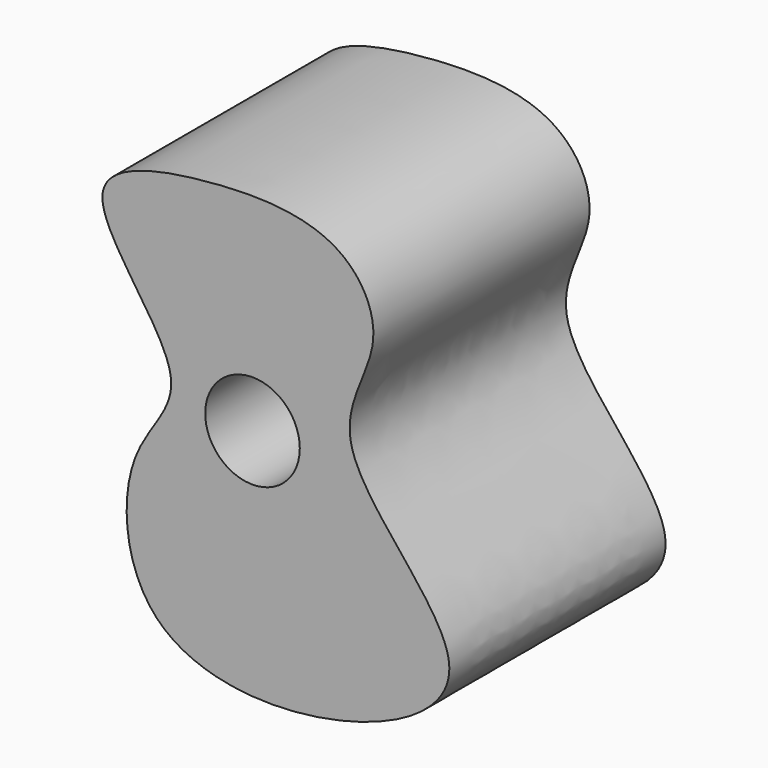
from build123d import *

# Parameters (mm, degrees)
F0_R     = 8.89
F1_DEPTH = 50.8


with BuildPart() as f1:
    # F0 (on Front) → F1 (new body)
    with BuildSketch(Plane.XZ):
        with BuildLine():
            add(Edge.make_bspline(
                [(-46.8421793414, 56.2575792243), (-47.4285455542, 49.7548142027), (-26.4571794687, 29.6527900877), (-44.2757725198, 16.8408653855), (-41.9962216061, -18.0785970853), (-0.1913454109, -19.7424700698), (29.5666641029, -0.6879411353), (-8.5110216832, 28.7328819698), (7.5655356088, 47.4730076166), (-1.3479715775, 65.0090384836), (-25.9649673144, 66.0556476469), (-46.3371447516, 61.8583815782), (-46.8421793414, 56.2575792243)],
                knots=[0, 0, 0, 0, 0.1082999991, 0.19178113, 0.2959819843, 0.4189913686, 0.5187139689, 0.6385981179, 0.7268439812, 0.8046034501, 0.9067216964, 1, 1, 1, 1], degree=3))
        make_face()
        with Locations((-18.6582932697, 26.2912317781)):
            Circle(F0_R, mode=Mode.SUBTRACT)
    extrude(amount=F1_DEPTH)


solid = f1.part
